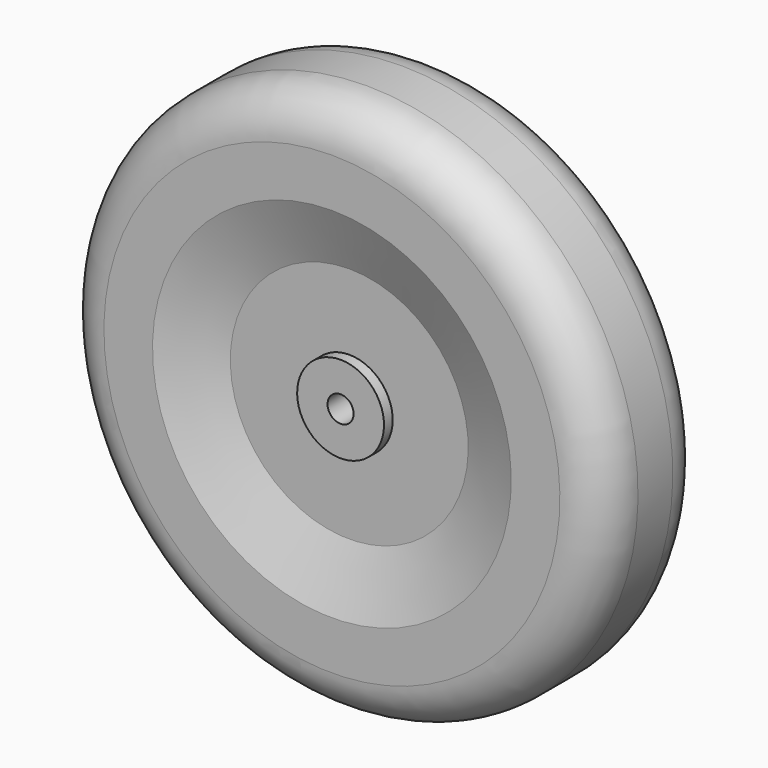
from build123d import *

# Parameters (mm, degrees)
F2_R = 20


with BuildPart() as f1:
    # F0 (on Right) → F1 (revolve)
    with BuildSketch(Plane.YZ):
        Polygon((-30, 82.617566), (-20, 54.791786), (-20, 20), (-25, 20), (-25, 6), (0, 6), (20, 6), (25, 6), (25, 20), (20, 20), (20, 54.791786), (30, 82.617566), (30, 125), (0, 125), (-30, 125), align=None)
    revolve(axis=Axis((0, 0.420819, 0), (0, 1, 0)))

    # F2
    f2_edges = [f1.edges().sort_by_distance(p)[0] for p in [
        (0, -30, -125),
        (0, 30, -125),
    ]]
    fillet(f2_edges, radius=F2_R)


solid = f1.part
